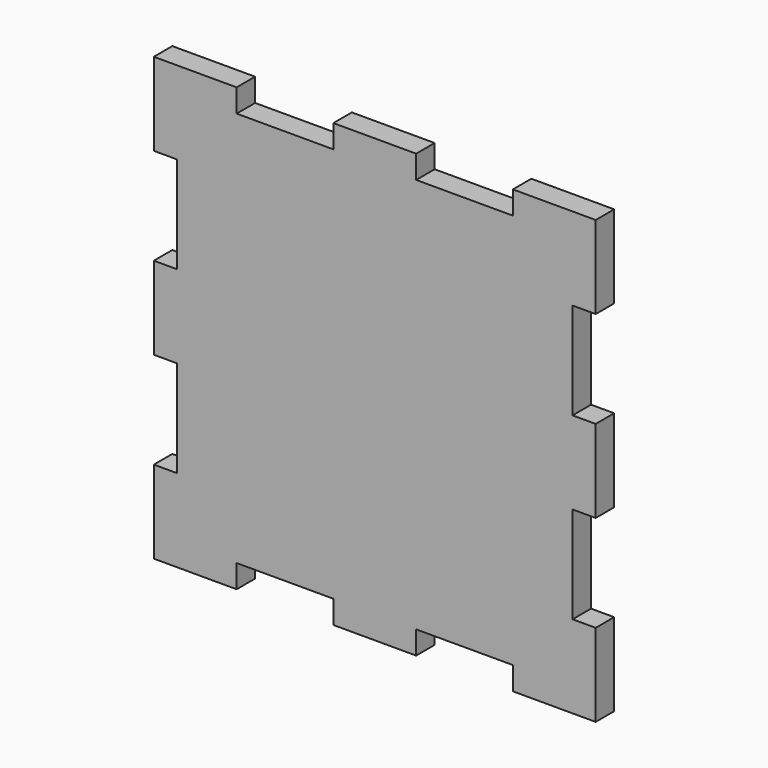
from build123d import *

# Parameters (mm, degrees)
F0_W     = 20.935
F0_H     = 5.842
F0_W_2   = 5.842
F0_H_2   = 20.9348
F0_H_3   = 20.935
F1_DEPTH = 5.842


with BuildPart() as f1:
    # F0 (on Front) → F1 (new body)
    with BuildSketch(Plane.XZ):
        Polygon((50, 34.907), (50, 50), (34.907, 50), (10.467, 50), (-10.468, 50), (-34.907, 50), (-50, 50), (-50, 34.907), (-50, 10.468), (-50, -10.467), (-50, -34.907), (-50, -50), (-34.907, -50), (-10.4675, -50), (10.4675, -50), (34.907, -50), (50, -50), (50, -34.907), (50, -10.4668), (50, 10.468), align=None)
        Polygon((34.907, 50), (50, 50), (50, 34.907), (55.842, 34.907), (55.842, 55.842), (34.907, 55.842), align=None)
        with Locations((-0.0005, 52.921)):
            Rectangle(F0_W, F0_H)
        with Locations((52.921, 0.0006)):
            Rectangle(F0_W_2, F0_H_2)
        Polygon((-50, 50), (-34.907, 50), (-34.907, 55.842), (-55.842, 55.842), (-55.842, 34.907), (-50, 34.907), align=None)
        Polygon((55.842, -34.907), (50, -34.907), (50, -50), (34.907, -50), (34.907, -55.842), (55.842, -55.842), align=None)
        with Locations((-52.921, 0.0005)):
            Rectangle(F0_W_2, F0_H_3)
        with Locations((0, -52.921)):
            Rectangle(F0_W, F0_H)
        Polygon((-50, -50), (-50, -34.907), (-55.842, -34.907), (-55.842, -55.842), (-34.907, -55.842), (-34.907, -50), align=None)
    extrude(amount=F1_DEPTH)


solid = f1.part
